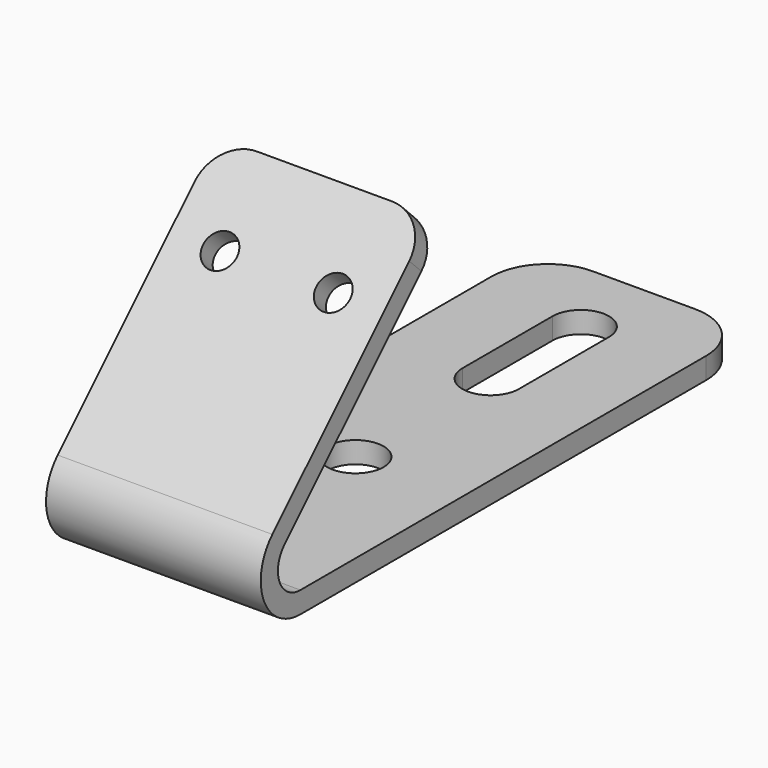
from build123d import *

# Parameters (mm, degrees)
F1_DEPTH = 483.87
F2_R     = 63.5
F3_DEPTH = 48.26
F4_R     = 38.1
F5_DEPTH = 48.26


with BuildPart() as f1:
    # F0 (on Right) → F1 (new body)
    with BuildSketch(Plane.YZ):
        with BuildLine():
            Line((812.8, 0), (0, 0))
            Line((0, 0), (-457.2, 0))
            ThreePointArc((-457.2, 0), (-515.86635, 39.199602), (-502.101281, 108.401281))
            Line((-502.101281, 108.401281), (-53.088475, 557.414087))
            Line((-53.088475, 557.414087), (-87.213448, 591.53906))
            Line((-87.213448, 591.53906), (-536.226254, 142.526254))
            ThreePointArc((-536.226254, 142.526254), (-560.452777, 20.7313), (-457.2, -48.26))
            Line((-457.2, -48.26), (812.8, -48.26))
            Line((812.8, -48.26), (812.8, 0))
        make_face()
    extrude(amount=-F1_DEPTH)

    # F2 (on face) → F3 (cut, through all)
    with BuildSketch(Plane.XY):
        with BuildLine():
            Line((-356.87, 812.8), (-483.87, 812.8))
            Line((-483.87, 812.8), (-483.87, 685.8))
            ThreePointArc((-483.87, 685.8), (-446.672561, 775.602561), (-356.87, 812.8))
        make_face()
        with Locations((-241.935, 0)):
            Circle(F2_R)
        with BuildLine():
            Line((-178.435, 381), (-178.435, 635))
            ThreePointArc((-178.435, 635), (-241.935, 698.5), (-305.435, 635))
            Line((-305.435, 635), (-305.435, 381))
            ThreePointArc((-305.435, 381), (-241.935, 317.5), (-178.435, 381))
        make_face()
        with BuildLine():
            Line((0, 685.8), (0, 812.8))
            Line((0, 812.8), (-127, 812.8))
            ThreePointArc((-127, 812.8), (-37.197439, 775.602561), (0, 685.8))
        make_face()
    extrude(amount=-F3_DEPTH, mode=Mode.SUBTRACT)

    # F4 (on face) → F5 (cut, through all)
    with BuildSketch(Plane(origin=(0, -339.376254, 339.376254), x_dir=(1, 0, 0), z_dir=(0, -0.707107, 0.707107))):
        with BuildLine():
            Line((-394.067439, 356.61206), (-483.87, 356.61206))
            Line((-483.87, 356.61206), (-483.87, 266.809499))
            ThreePointArc((-483.87, 266.809499), (-457.567439, 330.309499), (-394.067439, 356.61206))
        make_face()
        with BuildLine():
            Line((0, 266.809499), (0, 356.61206))
            Line((0, 356.61206), (-89.802561, 356.61206))
            ThreePointArc((-89.802561, 356.61206), (-26.302561, 330.309499), (0, 266.809499))
        make_face()
        with Locations((-369.57, 166.11206)):
            Circle(F4_R)
        with Locations((-114.3, 166.11206)):
            Circle(F4_R)
    extrude(amount=-F5_DEPTH, mode=Mode.SUBTRACT)


solid = f1.part
